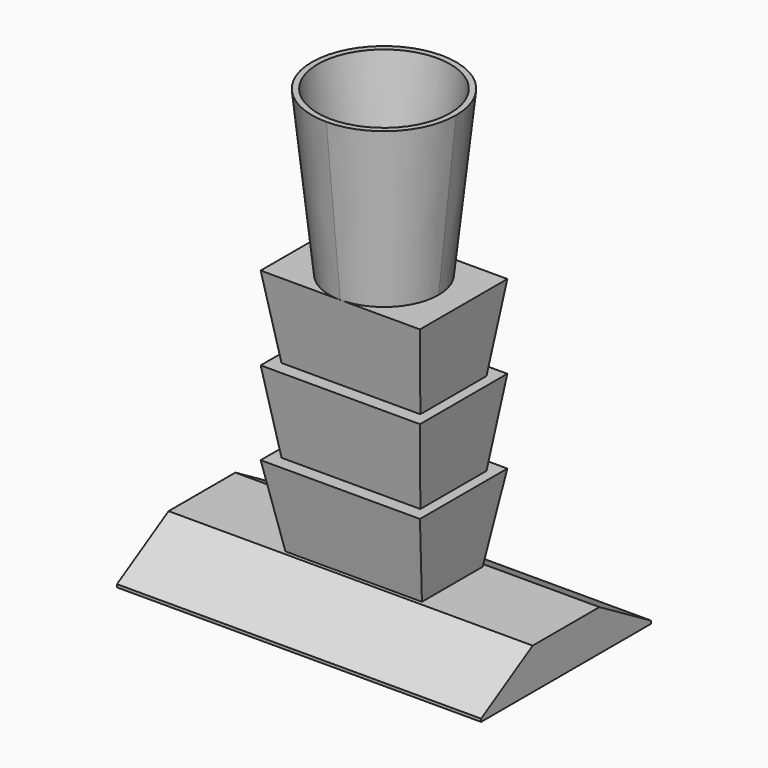
from build123d import *

# Parameters (mm, degrees)
F0_W      = 60.96
F0_H      = 35.56
F1_DEPTH  = 6.858
F2_SIZE2  = 6.3754
F2_SIZE   = 10.795
F3_W      = 22.86
F3_H      = 12.7
F5_W      = 26.67
F5_H      = 18.288
F8_W      = 23.241
F8_H      = 13.843
F9_W      = 26.67
F9_H      = 18.288
F12_W     = 23.241
F12_H     = 13.843
F13_W     = 26.67
F13_H     = 18.288
F17_R     = 12.065
F19_R     = 11.0998
F20_DEPTH = 27.432
F20_TAPER = 6


with BuildPart() as f1:
    # F0 (on Top) → F1 (new body)
    with BuildSketch(Plane.XY):
        Rectangle(F0_W, F0_H)
    extrude(amount=F1_DEPTH)

    # F2
    f2_edges = [f1.edges().sort_by_distance(p)[0] for p in [
        (0, 17.78, 6.858),
        (0, -17.78, 6.858),
    ]]
    f2_side = f1.faces().sort_by_distance((0, 0, 6.858))[0]
    chamfer(f2_edges, length=F2_SIZE, length2=F2_SIZE2, reference=f2_side)

    # F3 (on face) → F6 section 0
    with BuildSketch(Plane.XY.offset(6.858)):
        Rectangle(F3_W, F3_H)
    # F5 (on offset) → F6 section 1
    with BuildSketch(Plane.XY.offset(20.828)):
        Rectangle(F5_W, F5_H)
    loft()

    # F8 (on face) → F10 section 0
    with BuildSketch(Plane.XY.offset(20.828)):
        Rectangle(F8_W, F8_H)
    # F9 (on offset) → F10 section 1
    with BuildSketch(Plane.XY.offset(34.798)):
        Rectangle(F9_W, F9_H)
    loft()

    # F12 (on face) → F14 section 0
    with BuildSketch(Plane.XY.offset(34.798)):
        Rectangle(F12_W, F12_H)
    # F13 (on offset) → F14 section 1
    with BuildSketch(Plane.XY.offset(48.768)):
        Rectangle(F13_W, F13_H)
    loft()

    # F15 (on face) → F18 section 0
    with BuildSketch(Plane.XY.offset(48.768)):
        with BuildLine():
            ThreePointArc((0, 9.144), (-9.144, 0), (0, -9.144))
            ThreePointArc((0, -9.144), (6.4657844072, -6.4657844072), (9.144, 0))
            ThreePointArc((9.144, 0), (6.4657844072, 6.4657844072), (0, 9.144))
        make_face()
    # F17 (on offset) → F18 section 1
    with BuildSketch(Plane.XY.offset(76.2)):
        Circle(F17_R)
    loft()

    # F19 (on face) → F20 (cut, through all)
    with BuildSketch(Plane.XY.offset(76.2)):
        Circle(F19_R)
    extrude(amount=-F20_DEPTH, taper=F20_TAPER, mode=Mode.SUBTRACT)


solid = f1.part
